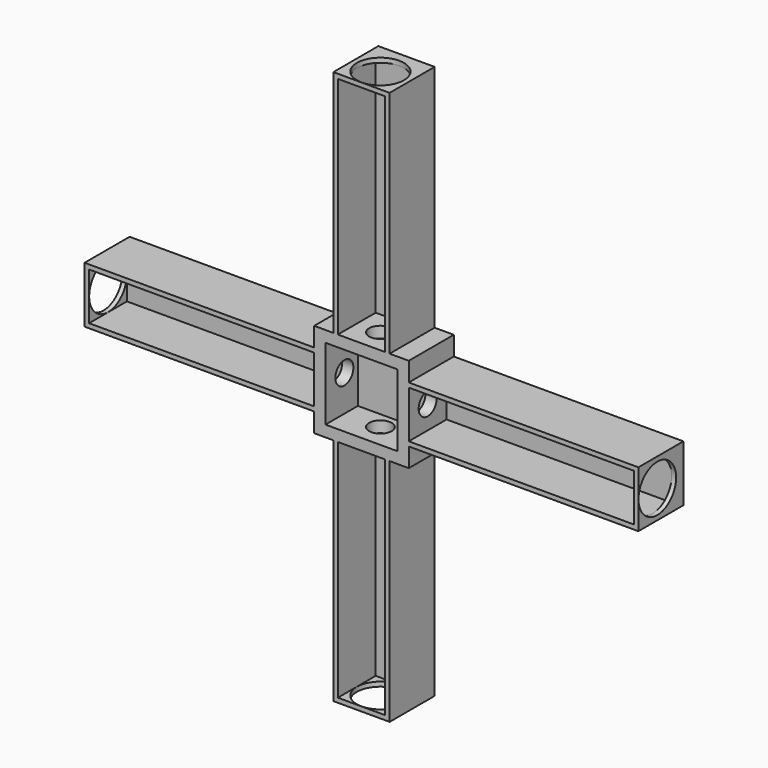
from build123d import *

# Parameters (mm, degrees)
F0_W      = 42
F0_H      = 42
F0_W_2    = 32
F0_H_2    = 32
F5_DEPTH  = 25
F1_W      = 25
F1_H      = 102
F2_W      = 102
F2_H      = 25
F3_W      = 102
F3_H      = 25
F4_W      = 25
F4_H      = 102
F6_DEPTH  = 25
F7_W      = 32
F7_H      = 32
F8_DEPTH  = 18
F9_W      = 100
F9_H      = 21
F10_DEPTH = 21
F11_W     = 100
F11_H     = 21
F12_DEPTH = 21
F13_W     = 21
F13_H     = 100
F14_DEPTH = 21
F15_W     = 21
F15_H     = 100
F16_DEPTH = 21
F18_D     = 10
F18_DEPTH = 11
F20_D     = 10
F20_DEPTH = 11
F22_D     = 10
F22_DEPTH = 11
F24_D     = 10
F24_DEPTH = 11
F26_D     = 20.9
F26_DEPTH = 3
F28_D     = 20.9
F28_DEPTH = 3
F30_D     = 20.9
F30_DEPTH = 3
F32_D     = 20.9
F32_DEPTH = 3


with BuildPart() as f5:
    # F0 (on Front) → F5 (new body)
    with BuildSketch(Plane.XZ):
        Rectangle(F0_W, F0_H)
        Rectangle(F0_W_2, F0_H_2, mode=Mode.SUBTRACT)
        Rectangle(F0_W_2, F0_H_2)
    extrude(amount=F5_DEPTH)

    # F1 (on Front) + F2 (on Front) + F3 (on Front) + F4 (on Front) → F6 (join)
    with BuildSketch(Plane.XZ):
        with Locations((0, -72)):
            Rectangle(F1_W, F1_H)
    with BuildSketch(Plane.XZ):
        with Locations((-72, 0)):
            Rectangle(F2_W, F2_H)
    with BuildSketch(Plane.XZ):
        with Locations((72, 0)):
            Rectangle(F3_W, F3_H)
    with BuildSketch(Plane.XZ):
        with Locations((0, 72)):
            Rectangle(F4_W, F4_H)
    extrude(amount=F6_DEPTH)

    # F7 (on face) → F8 (cut)
    with BuildSketch(Plane.XZ.offset(25)):
        Rectangle(F7_W, F7_H)
    extrude(amount=-F8_DEPTH, mode=Mode.SUBTRACT)

    # F9 (on face) → F10 (cut)
    with BuildSketch(Plane.XZ.offset(25)):
        with Locations((-71, 0)):
            Rectangle(F9_W, F9_H)
    extrude(amount=-F10_DEPTH, mode=Mode.SUBTRACT)

    # F11 (on face) → F12 (cut)
    with BuildSketch(Plane.XZ.offset(25)):
        with Locations((71, 0)):
            Rectangle(F11_W, F11_H)
    extrude(amount=-F12_DEPTH, mode=Mode.SUBTRACT)

    # F13 (on face) → F14 (cut)
    with BuildSketch(Plane.XZ.offset(25)):
        with Locations((0, 71)):
            Rectangle(F13_W, F13_H)
    extrude(amount=-F14_DEPTH, mode=Mode.SUBTRACT)

    # F15 (on face) → F16 (cut)
    with BuildSketch(Plane.XZ.offset(25)):
        with Locations((0, -71)):
            Rectangle(F15_W, F15_H)
    extrude(amount=-F16_DEPTH, mode=Mode.SUBTRACT)

    # F18
    with Locations(Plane.YZ.offset(21)):
        with Locations((-14.5, 0)):
            Hole(F18_D / 2, depth=F18_DEPTH)

    # F20
    with Locations(Plane(origin=(0, 0, -21), x_dir=(1, 0, 0), z_dir=(0, 0, -1))):
        with Locations((0, 14.5)):
            Hole(F20_D / 2, depth=F20_DEPTH)

    # F22
    with Locations(Plane.XY.offset(21)):
        with Locations((0, -14.5)):
            Hole(F22_D / 2, depth=F22_DEPTH)

    # F24
    with Locations(Plane(origin=(-21, 0, 0), x_dir=(0, -1, 0), z_dir=(-1, 0, 0))):
        with Locations((14.5, 0)):
            Hole(F24_D / 2, depth=F24_DEPTH)

    # F26
    with Locations(Plane(origin=(-123, 0, 0), x_dir=(0, -1, 0), z_dir=(-1, 0, 0))):
        with Locations((14.5, 0)):
            Hole(F26_D / 2, depth=F26_DEPTH)

    # F28
    with Locations(Plane.XY.offset(123)):
        with Locations((0, -14.5)):
            Hole(F28_D / 2, depth=F28_DEPTH)

    # F30
    with Locations(Plane(origin=(0, 0, -123), x_dir=(1, 0, 0), z_dir=(0, 0, -1))):
        with Locations((0, 14.5)):
            Hole(F30_D / 2, depth=F30_DEPTH)

    # F32
    with Locations(Plane.YZ.offset(123)):
        with Locations((-14.5, 0)):
            Hole(F32_D / 2, depth=F32_DEPTH)


solid = f5.part
